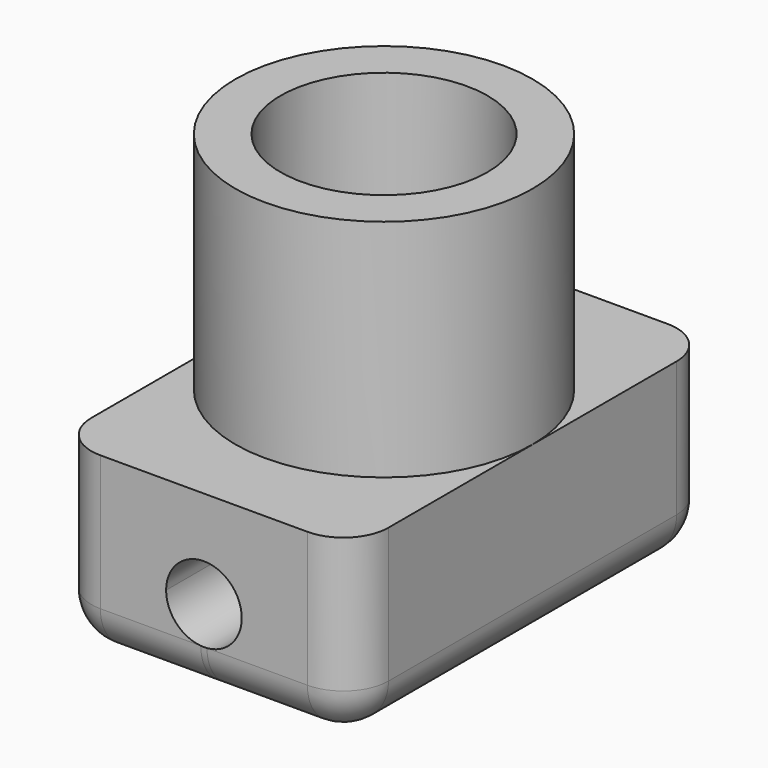
from build123d import *

# Parameters (mm, degrees)
F0_R     = 16.5
F0_R_2   = 11.5
F1_DEPTH = 25
F2_W     = 33
F2_H     = 50
F3_DEPTH = 20
F5_D     = 8.4
F5_DEPTH = 25.001
F6_D     = 8.4
F7_R     = 5


with BuildPart() as f1:
    # F0 (on Top) → F1 (new body)
    with BuildSketch(Plane.XY):
        Circle(F0_R)
        Circle(F0_R_2, mode=Mode.SUBTRACT)
    extrude(amount=F1_DEPTH)

    # F2 (on Top) → F3 (join)
    with BuildSketch(Plane.XY):
        Rectangle(F2_W, F2_H)
    extrude(amount=-F3_DEPTH)

    # F5 (through all, one way)
    with BuildSketch(Plane(origin=(0, 0, 0), x_dir=(1, 0, 0), z_dir=(0, 1, 0))):
        with Locations((0, 10.8142616227)):
            Circle(F5_D / 2)
    extrude(amount=-F5_DEPTH, mode=Mode.SUBTRACT)

    # F6 (through all)
    with Locations(Plane.XZ):
        with Locations((0, -10.8142616227)):
            Hole(F6_D / 2)

    # F7
    f7_edges = [f1.edges().sort_by_distance(p)[0] for p in [
        (0, 25, -20),
        (-16.5, 0, -20),
        (0, -25, -20),
        (16.5, 0, -20),
        (-16.5, 25, -10),
        (16.5, 25, -10),
        (16.5, -25, -10),
        (-16.5, -25, -10),
    ]]
    fillet(f7_edges, radius=F7_R)


solid = f1.part
